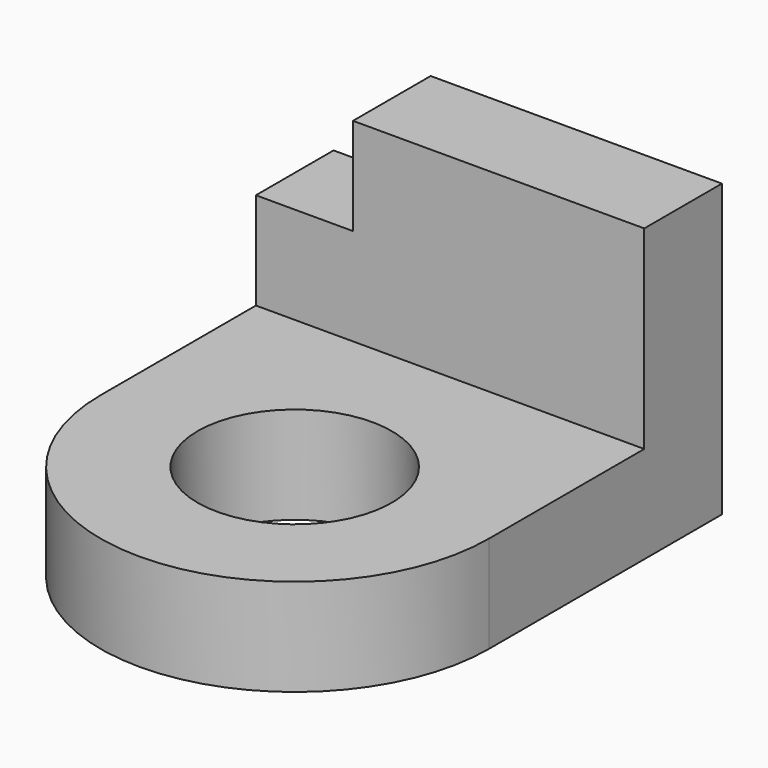
from build123d import *

# Parameters (mm, degrees)
F1_DEPTH = 25.4
F2_W     = 101.6
F2_H     = 25.4
F3_DEPTH = 50.8
F4_W     = 25.4
F4_H     = 25.4
F5_DEPTH = 25.401


with BuildPart() as f1:
    # F0 (on Top) → F1 (new body)
    with BuildSketch(Plane.XY):
        with BuildLine():
            ThreePointArc((-50.8, -38.1), (0, -88.9), (50.8, -38.1))
            Line((50.8, -38.1), (25.4, -38.1))
            ThreePointArc((25.4, -38.1), (0, -63.5), (-25.4, -38.1))
            Line((-25.4, -38.1), (-50.8, -38.1))
        make_face()
        with BuildLine():
            ThreePointArc((-50.8, -38.1), (0, 12.7), (50.8, -38.1))
            Line((50.8, -38.1), (50.8, 38.1))
            Line((50.8, 38.1), (-50.8, 38.1))
            Line((-50.8, 38.1), (-50.8, -38.1))
        make_face()
        with BuildLine():
            Line((25.4, -38.1), (50.8, -38.1))
            ThreePointArc((50.8, -38.1), (0, 12.7), (-50.8, -38.1))
            Line((-50.8, -38.1), (-25.4, -38.1))
            ThreePointArc((-25.4, -38.1), (0, -12.7), (25.4, -38.1))
        make_face()
    extrude(amount=F1_DEPTH)

    # F2 (on face) → F3 (join)
    with BuildSketch(Plane.XY.offset(25.4)):
        with Locations((0, 25.4)):
            Rectangle(F2_W, F2_H)
    extrude(amount=F3_DEPTH)

    # F4 (on face) → F5 (cut, through all)
    with BuildSketch(Plane.XZ.offset(-12.7)):
        with Locations((-38.1, 63.5)):
            Rectangle(F4_W, F4_H)
    extrude(amount=-F5_DEPTH, mode=Mode.SUBTRACT)


solid = f1.part
